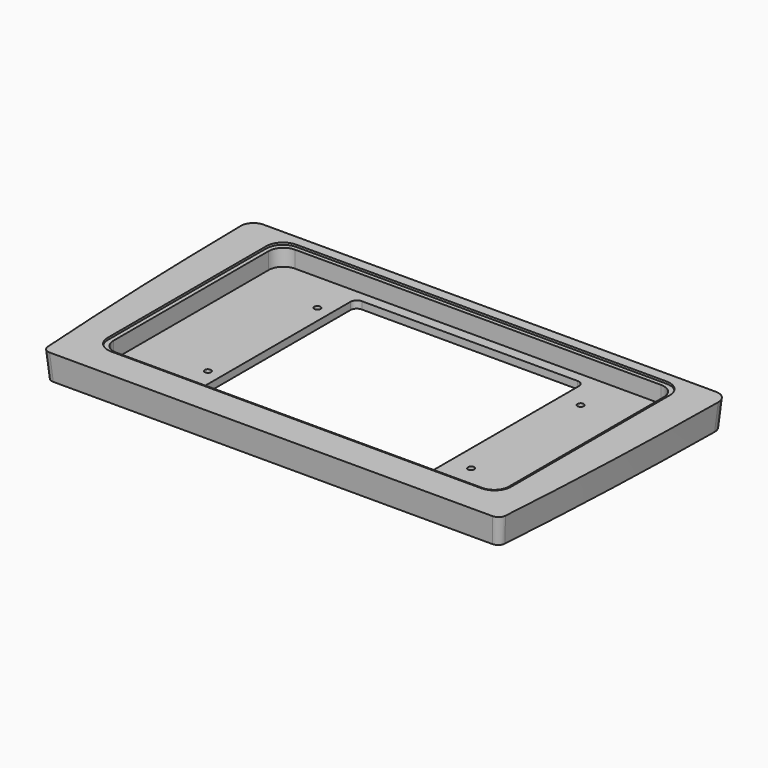
from build123d import *

# Parameters (mm, degrees)
FILLET_R        = 6
FILLET001_R     = 3.5
POCKET_DEPTH    = 1
POCKET001_DEPTH = 8
SKETCH004_R     = 1.5
POCKET002_DEPTH = 5
POCKET003_DEPTH = 5
SKETCH006_R     = 2
POCKET004_DEPTH = 5


with BuildPart() as part:
    # Sketch → AdditiveLoft section 0
    with BuildSketch(Plane.XY):
        with BuildLine():
            Line((-114.5, 111), (114.5, 111))
            ThreePointArc((109.5, -20), (112.998546, 45.461888), (114.5, 111))
            Line((109.5, -20), (-109.5, -20))
            ThreePointArc((-114.5, 111), (-112.998546, 45.461888), (-109.5, -20))
        make_face()
    # Sketch001 → AdditiveLoft section 1
    with BuildSketch(Plane.XY.offset(-12.5)):
        with BuildLine():
            Line((-113.5, 110), (113.5, 110))
            ThreePointArc((108.5, -19), (111.9985, 45.461298), (113.5, 110))
            Line((108.5, -19), (-108.5, -19))
            ThreePointArc((-113.5, 110), (-111.9985, 45.461298), (-108.5, -19))
        make_face()
    loft()

    # Fillet
    fillet_edges = [part.edges().sort_by_distance(p)[0] for p in [
        (-114, 110.5, -6.25),
        (114, 110.5, -6.25),
    ]]
    fillet(fillet_edges, radius=FILLET_R)

    # Fillet001
    fillet001_edges = [part.edges().sort_by_distance(p)[0] for p in [
        (-109, -19.5, -6.25),
        (109, -19.5, -6.25),
    ]]
    fillet(fillet001_edges, radius=FILLET001_R)

    # Sketch002 (on Face1 of Fillet001) → Pocket (cut)
    with BuildSketch(Plane.XY):
        with BuildLine():
            Line((-88.75, 106), (88.75, 106))
            ThreePointArc((96.75, 98), (94.406854, 103.656854), (88.75, 106))
            Line((96.75, 98), (96.75, 3))
            ThreePointArc((88.75, -5), (94.406854, -2.656854), (96.75, 3))
            Line((88.75, -5), (-88.75, -5))
            ThreePointArc((-96.75, 3), (-94.406854, -2.656854), (-88.75, -5))
            Line((-96.75, 3), (-96.75, 98))
            ThreePointArc((-88.75, 106), (-94.406854, 103.656854), (-96.75, 98))
        make_face()
    extrude(amount=-POCKET_DEPTH, mode=Mode.SUBTRACT)

    # Sketch003 (on Face19 of Pocket) → Pocket001 (cut)
    with BuildSketch(Plane.XY.offset(-1)):
        with BuildLine():
            Line((-87.75, 104), (87.75, 104))
            ThreePointArc((94.75, 97), (92.699747, 101.949747), (87.75, 104))
            Line((94.75, 97), (94.75, 4))
            ThreePointArc((87.75, -3), (92.699747, -0.949747), (94.75, 4))
            Line((87.75, -3), (-87.75, -3))
            ThreePointArc((-94.75, 4), (-92.699747, -0.949747), (-87.75, -3))
            Line((-94.75, 4), (-94.75, 97))
            ThreePointArc((-87.75, 104), (-92.699747, 101.949747), (-94.75, 97))
        make_face()
    extrude(amount=-POCKET001_DEPTH, mode=Mode.SUBTRACT)

    # Sketch004 (on Face28 of Pocket001) → Pocket002 (cut)
    with BuildSketch(Plane.XY.offset(-9)):
        with Locations((-61.34, 84.42)):
            Circle(SKETCH004_R)
        with Locations((64.86, 84.42)):
            Circle(SKETCH004_R)
        with Locations((64.86, 18.77)):
            Circle(SKETCH004_R)
        with Locations((-61.34, 18.77)):
            Circle(SKETCH004_R)
    extrude(amount=-POCKET002_DEPTH, mode=Mode.SUBTRACT)

    # Sketch005 (on Face32 of Pocket002) → Pocket003 (cut)
    with BuildSketch(Plane.XY.offset(-9)):
        with BuildLine():
            Line((-51.75, 99), (51.75, 99))
            ThreePointArc((54.75, 96), (53.87132, 98.12132), (51.75, 99))
            Line((54.75, 96), (54.75, 5))
            ThreePointArc((51.75, 2), (53.87132, 2.87868), (54.75, 5))
            Line((51.75, 2), (-51.75, 2))
            ThreePointArc((-54.75, 5), (-53.87132, 2.87868), (-51.75, 2))
            Line((-54.75, 5), (-54.75, 96))
            ThreePointArc((-51.75, 99), (-53.87132, 98.12132), (-54.75, 96))
        make_face()
    extrude(amount=-POCKET003_DEPTH, mode=Mode.SUBTRACT)

    # Sketch006 (on Face18 of Pocket003) → Pocket004 (cut)
    with BuildSketch(Plane(origin=(0, 0, -12.5), x_dir=(1, 0, 0), z_dir=(0, 0, -1))):
        with Locations((97.5, -86)):
            Circle(SKETCH006_R)
        with Locations((97.5, -2)):
            Circle(SKETCH006_R)
        with Locations((-97.5, -2)):
            Circle(SKETCH006_R)
        with Locations((-97.5, -86)):
            Circle(SKETCH006_R)
    extrude(amount=-POCKET004_DEPTH, mode=Mode.SUBTRACT)


solid = part.part
